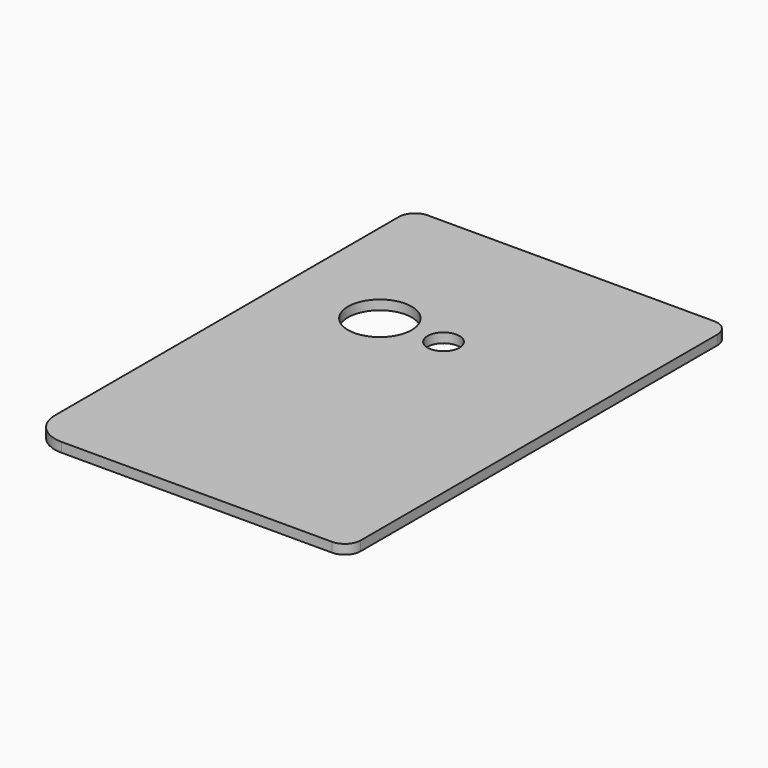
from build123d import *

# Parameters (mm, degrees)
F1_DEPTH = 3
F2_R     = 10
F2_R_2   = 5
F3_DEPTH = 25


with BuildPart() as f1:
    # F0 (on Top) → F1 (new body)
    with BuildSketch(Plane.XY):
        with BuildLine():
            Line((42.268149, 113.699597), (-47.731851, 113.699597))
            ThreePointArc((-47.731851, 113.699597), (-51.267385, 112.235131), (-52.731851, 108.699597))
            Line((-52.731851, 108.699597), (-52.731851, -26.300403))
            ThreePointArc((-52.731851, -26.300403), (-49.802919, -33.371471), (-42.731851, -36.300403))
            Line((-42.731851, -36.300403), (42.268149, -36.300403))
            ThreePointArc((42.268149, -36.300403), (45.803682, -34.835937), (47.268149, -31.300403))
            Line((47.268149, -31.300403), (47.268149, 108.699597))
            ThreePointArc((47.268149, 108.699597), (45.803682, 112.235131), (42.268149, 113.699597))
        make_face()
    extrude(amount=F1_DEPTH)

    # F2 (on face) → F3 (cut)
    with BuildSketch(Plane.XY.offset(3)):
        with Locations((-22.731851, 63.699597)):
            Circle(F2_R)
        with Locations((-2.731851, 63.699597)):
            Circle(F2_R_2)
    extrude(amount=-F3_DEPTH, mode=Mode.SUBTRACT)


solid = f1.part
